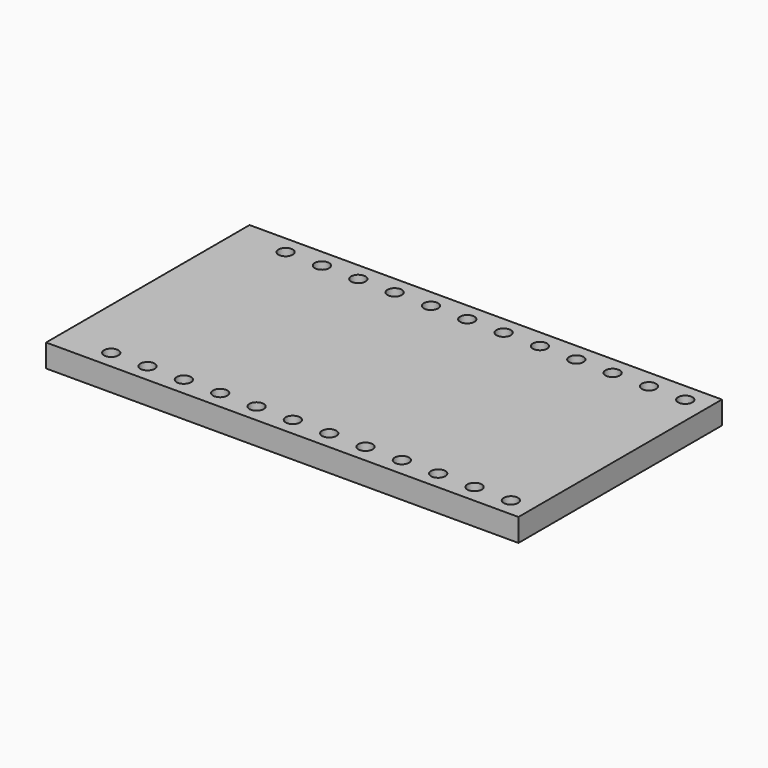
from build123d import *

# Parameters (mm, degrees)
F0_W     = 33.02
F0_H     = 17.78
F1_DEPTH = 1.6
F2_R     = 0.5
F3_DEPTH = 25


with BuildPart() as f1:
    # F0 (on Top) → F1 (new body)
    with BuildSketch(Plane.XY):
        Rectangle(F0_W, F0_H)
    extrude(amount=F1_DEPTH)

    # F2 (on Top) → F3 (cut)
    with BuildSketch(Plane.XY):
        with Locations((-12.974238, 7.62)):
            Circle(F2_R)
        with Locations((-10.434238, 7.62)):
            Circle(F2_R)
        with Locations((-7.894238, 7.62)):
            Circle(F2_R)
        with Locations((-5.354238, 7.62)):
            Circle(F2_R)
        with Locations((-2.814238, 7.62)):
            Circle(F2_R)
        with Locations((-0.274238, 7.62)):
            Circle(F2_R)
        with Locations((2.265762, 7.62)):
            Circle(F2_R)
        with Locations((4.805762, 7.62)):
            Circle(F2_R)
        with Locations((7.345762, 7.62)):
            Circle(F2_R)
        with Locations((9.885762, 7.62)):
            Circle(F2_R)
        with Locations((12.425762, 7.62)):
            Circle(F2_R)
        with Locations((14.965762, 7.62)):
            Circle(F2_R)
        with Locations((2.265762, -7.62)):
            Circle(F2_R)
        with Locations((4.805762, -7.62)):
            Circle(F2_R)
        with Locations((7.345762, -7.62)):
            Circle(F2_R)
        with Locations((9.885762, -7.62)):
            Circle(F2_R)
        with Locations((12.425762, -7.62)):
            Circle(F2_R)
        with Locations((-0.274238, -7.62)):
            Circle(F2_R)
        with Locations((14.965762, -7.62)):
            Circle(F2_R)
        with Locations((-2.814238, -7.62)):
            Circle(F2_R)
        with Locations((-7.894238, -7.62)):
            Circle(F2_R)
        with Locations((-12.974238, -7.62)):
            Circle(F2_R)
        with Locations((-5.354238, -7.62)):
            Circle(F2_R)
        with Locations((-10.434238, -7.62)):
            Circle(F2_R)
    extrude(amount=F3_DEPTH, mode=Mode.SUBTRACT)


solid = f1.part
